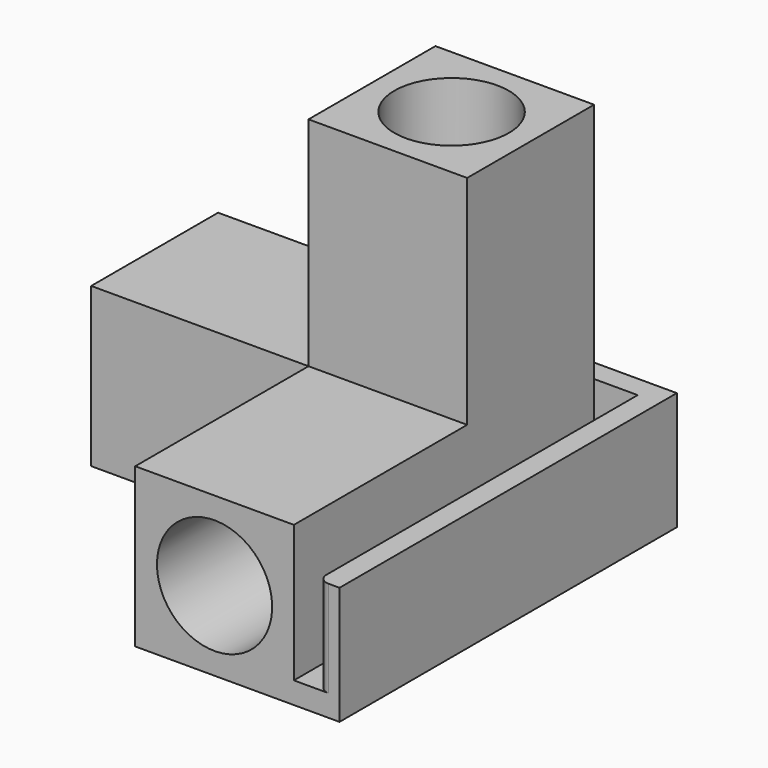
from build123d import *

# Parameters (mm, degrees)
F0_W      = 27
F0_H      = 15.9
F0_W_2    = 15.9
F0_H_2    = 27
F0_W_3    = 3
F0_H_3    = 3
F1_DEPTH  = 21.9
F2_DEPTH  = 51.8
F3_R      = 7.95
F6_DEPTH  = 30
F7_DEPTH  = 30
F4_R      = 7.9
F8_DEPTH  = 30
F10_DEPTH = 58.2
F11_W     = 3
F11_H     = 13.3
F13_R     = 1.5


with BuildPart() as f1:
    # F0 (on Front) → F1 (new body)
    with BuildSketch(Plane.XZ):
        with BuildLine():
            Line((-34.3576915575, 15.9), (-42.3076915575, 15.9))
            Line((-42.3076915575, 15.9), (-42.3076915575, 7.9499999931))
            ThreePointArc((-42.3076915575, 7.9499999931), (-39.9791904704, 13.571498908), (-34.3576915575, 15.9))
        make_face()
        with BuildLine():
            ThreePointArc((-34.3576915575, 15.9), (-39.9791904704, 13.571498908), (-42.3076915575, 7.9499999931))
            ThreePointArc((-42.3076915575, 7.9499999931), (-39.9791904655, 2.3285010871), (-34.3576915575, 0))
            ThreePointArc((-34.3576915575, 0), (-28.7361926471, 2.3285010896), (-26.4076915575, 7.95))
            ThreePointArc((-26.4076915575, 7.95), (-28.7361926471, 13.5714989104), (-34.3576915575, 15.9))
        make_face()
        Polygon((-42.3076915575, 18.9), (-42.3076915575, 45.9), (-26.4076915575, 45.9), (-26.4076915575, 18.9), (-23.4076915575, 18.9), (-23.4076915575, 48.9), (-45.3076915575, 48.9), (-45.3076915575, 18.9), align=None)
        with Locations((-9.9076915575, 7.95)):
            Rectangle(F0_W, F0_H)
        with Locations((-34.3576915575, 32.4)):
            Rectangle(F0_W_2, F0_H_2)
        with BuildLine():
            ThreePointArc((-34.3576915575, 0), (-39.9791904655, 2.3285010871), (-42.3076915575, 7.9499999931))
            Line((-42.3076915575, 7.9499999931), (-42.3076915575, 0))
            Line((-42.3076915575, 0), (-34.3576915575, 0))
        make_face()
        with BuildLine():
            Line((-26.4076915575, 0), (-26.4076915575, 7.95))
            ThreePointArc((-26.4076915575, 7.95), (-28.7361926471, 2.3285010896), (-34.3576915575, 0))
            Line((-34.3576915575, 0), (-26.4076915575, 0))
        make_face()
        with BuildLine():
            Line((-26.4076915575, 7.95), (-26.4076915575, 15.9))
            Line((-26.4076915575, 15.9), (-34.3576915575, 15.9))
            ThreePointArc((-34.3576915575, 15.9), (-28.7361926471, 13.5714989104), (-26.4076915575, 7.95))
        make_face()
        Polygon((6.5923084425, 18.9), (-23.4076915575, 18.9), (-23.4076915575, 15.9), (3.5923084425, 15.9), (3.5923084425, 0), (-23.4076915575, 0), (-23.4076915575, -3), (6.5923084425, -3), align=None)
        Polygon((-26.4076915575, 18.9), (-42.3076915575, 18.9), (-42.3076915575, 15.9), (-34.3576915575, 15.9), (-26.4076915575, 15.9), align=None)
        Polygon((-23.4076915575, 15.9), (-26.4076915575, 15.9), (-26.4076915575, 7.95), (-26.4076915575, 0), (-23.4076915575, 0), align=None)
        Polygon((-42.3076915575, 15.9), (-42.3076915575, 18.9), (-45.3076915575, 18.9), (-45.3076915575, -3), (-23.4076915575, -3), (-23.4076915575, 0), (-26.4076915575, 0), (-34.3576915575, 0), (-42.3076915575, 0), (-42.3076915575, 7.9499999931), align=None)
        with Locations((-24.9076915575, 17.4)):
            Rectangle(F0_W_3, F0_H_3)
    extrude(amount=F1_DEPTH)

    # F0 (on Front) → F2 (join)
    with BuildSketch(Plane.XZ):
        Polygon((-42.3076915575, 15.9), (-42.3076915575, 18.9), (-45.3076915575, 18.9), (-45.3076915575, -3), (-23.4076915575, -3), (-23.4076915575, 0), (-26.4076915575, 0), (-34.3576915575, 0), (-42.3076915575, 0), (-42.3076915575, 7.9499999931), align=None)
        with BuildLine():
            ThreePointArc((-34.3576915575, 15.9), (-39.9791904704, 13.571498908), (-42.3076915575, 7.9499999931))
            ThreePointArc((-42.3076915575, 7.9499999931), (-39.9791904655, 2.3285010871), (-34.3576915575, 0))
            ThreePointArc((-34.3576915575, 0), (-28.7361926471, 2.3285010896), (-26.4076915575, 7.95))
            ThreePointArc((-26.4076915575, 7.95), (-28.7361926471, 13.5714989104), (-34.3576915575, 15.9))
        make_face()
        Polygon((-26.4076915575, 18.9), (-42.3076915575, 18.9), (-42.3076915575, 15.9), (-34.3576915575, 15.9), (-26.4076915575, 15.9), align=None)
        Polygon((-23.4076915575, 15.9), (-26.4076915575, 15.9), (-26.4076915575, 7.95), (-26.4076915575, 0), (-23.4076915575, 0), align=None)
        with Locations((-24.9076915575, 17.4)):
            Rectangle(F0_W_3, F0_H_3)
        with BuildLine():
            Line((-26.4076915575, 7.95), (-26.4076915575, 15.9))
            Line((-26.4076915575, 15.9), (-34.3576915575, 15.9))
            ThreePointArc((-34.3576915575, 15.9), (-28.7361926471, 13.5714989104), (-26.4076915575, 7.95))
        make_face()
        with BuildLine():
            Line((-34.3576915575, 15.9), (-42.3076915575, 15.9))
            Line((-42.3076915575, 15.9), (-42.3076915575, 7.9499999931))
            ThreePointArc((-42.3076915575, 7.9499999931), (-39.9791904704, 13.571498908), (-34.3576915575, 15.9))
        make_face()
        with BuildLine():
            ThreePointArc((-34.3576915575, 0), (-39.9791904655, 2.3285010871), (-42.3076915575, 7.9499999931))
            Line((-42.3076915575, 7.9499999931), (-42.3076915575, 0))
            Line((-42.3076915575, 0), (-34.3576915575, 0))
        make_face()
        with BuildLine():
            Line((-26.4076915575, 0), (-26.4076915575, 7.95))
            ThreePointArc((-26.4076915575, 7.95), (-28.7361926471, 2.3285010896), (-34.3576915575, 0))
            Line((-34.3576915575, 0), (-26.4076915575, 0))
        make_face()
    extrude(amount=F2_DEPTH)

    # F3 (on face) → F6 (cut)
    with BuildSketch(Plane.XZ.offset(51.8)):
        with Locations((-34.3576915575, 7.95)):
            Circle(F3_R)
    extrude(amount=-F6_DEPTH, mode=Mode.SUBTRACT)

    # F5 (on face) → F7 (cut)
    with BuildSketch(Plane.YZ.offset(6.5923084425)):
        with BuildLine():
            ThreePointArc((-3, 7.95), (-5.3285010896, 13.5714989104), (-10.95, 15.9))
            ThreePointArc((-10.95, 15.9), (-16.5714989104, 13.5714989104), (-18.9, 7.95))
            ThreePointArc((-18.9, 7.95), (-16.5714989104, 2.3285010896), (-10.95, 0))
            ThreePointArc((-10.95, 0), (-5.3285010896, 2.3285010896), (-3, 7.95))
        make_face()
    extrude(amount=-F7_DEPTH, mode=Mode.SUBTRACT)

    # F4 (on face) → F8 (cut)
    with BuildSketch(Plane.XY.offset(48.9)):
        with Locations((-34.3576915575, -10.9)):
            Circle(F4_R)
    extrude(amount=-F8_DEPTH, mode=Mode.SUBTRACT)

    # F9 (on face) → F10 (join)
    with BuildSketch(Plane.XZ.offset(51.8)):
        Polygon((-51.6076915575, -3), (-45.3076915575, -3), (-45.3076915575, 0), (-48.6076915575, 0), (-48.6076915575, 13.3), (-51.6076915575, 13.3), align=None)
    extrude(amount=-F10_DEPTH)

    # F11 (on face) → F12 (join, up to the next surface of F1)
    with BuildSketch(Plane.YZ.offset(6.5923084425)):
        Polygon((6.4, -3), (6.4, 0), (3.4, 0), (0, 0), (0, -3), align=None)
        with Locations((4.9, 6.65)):
            Rectangle(F11_W, F11_H)
    extrude(until=Until.NEXT, dir=(-1, 0, 0))

    # F13
    f13_edges = [f1.edges().sort_by_distance(p)[0] for p in [
        (6.592308, 3.4, 6.65),
        (-48.607692, -51.8, 6.65),
    ]]
    fillet(f13_edges, radius=F13_R)


with BuildPart() as f14_1:
    # F14: instance of F1
    add(f1.part.mirror(Plane(origin=(6.5923084425, -9.0672909783, 7.3023649608), x_dir=(0, 1, 0), z_dir=(1, 0, 0))))


solid = f14_1.part
